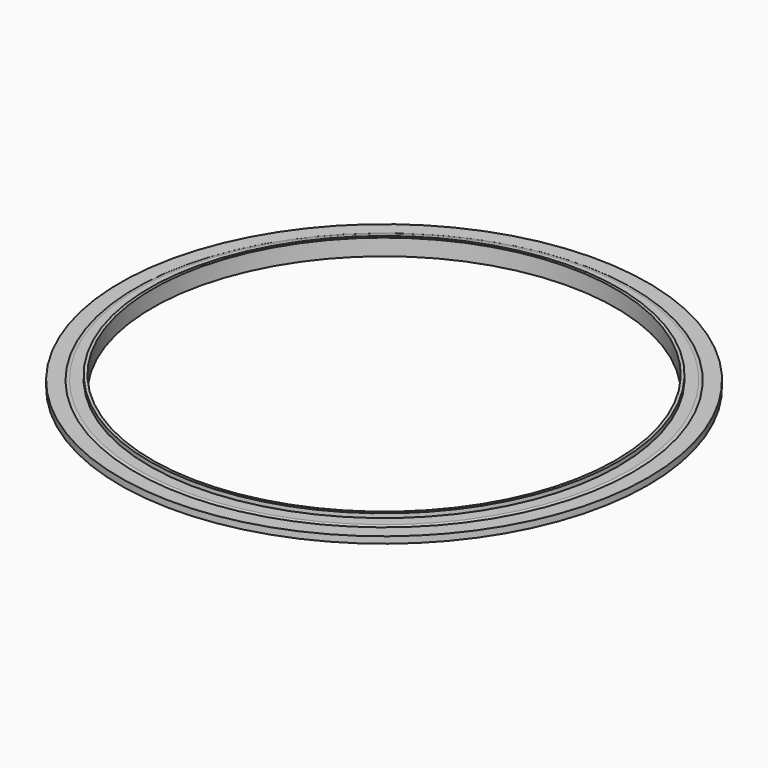
from build123d import *


with BuildPart() as f2:
    # F0 (on Front) → F2 (revolve)
    with BuildSketch(Plane.XZ):
        with BuildLine():
            Line((197.5, 7), (197.5, -7))
            Line((197.5, -7), (200, -7))
            Line((200, -7), (200, -3.45))
            Line((200, -3.45), (209.410509, -3.45))
            ThreePointArc((209.410509, -3.45), (210.822213, -3.402053), (212.1, -2.8))
            Line((212.1, -2.8), (225, -2.8))
            Line((225, -2.8), (225, 2.8))
            Line((225, 2.8), (212.1, 2.8))
            ThreePointArc((212.1, 2.8), (210.822213, 3.402053), (209.410509, 3.45))
            Line((209.410509, 3.45), (200, 3.45))
            Line((200, 3.45), (200, 7))
            Line((200, 7), (197.5, 7))
        make_face()
    revolve(axis=Axis((0, 0, 29.163605), (0, 0, 1)))


solid = f2.part
